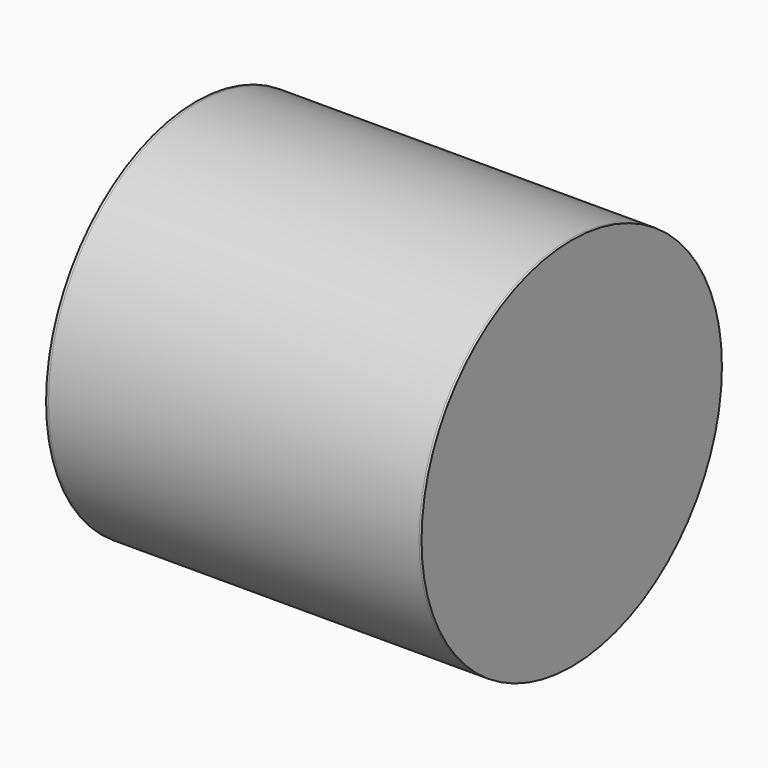
from build123d import *

# Parameters (mm, degrees)
SKETCH_R     = 152
PAD_DEPTH    = 2
SKETCH001_R  = 152
PAD001_DEPTH = 2
SKETCH002_R  = 152
PAD002_DEPTH = 300


with BuildPart() as pad:
    # Sketch → Pad (new body)
    with BuildSketch(Plane.YZ.offset(-150)):
        Circle(SKETCH_R)
    extrude(amount=-PAD_DEPTH)


with BuildPart() as pad001:
    # Sketch001 → Pad001 (new body)
    with BuildSketch(Plane.YZ.offset(150)):
        Circle(SKETCH001_R)
    extrude(amount=PAD001_DEPTH)


with BuildPart() as pad002:
    # Sketch002 → Pad002 (new body)
    with BuildSketch(Plane.YZ.offset(-150)):
        Circle(SKETCH002_R)
        with BuildLine():
            ThreePointArc((-5, 149.916644), (-75.000007, 129.903807), (-127.33163, 79.288436))
            Line((-127.33163, 79.288436), (-118.671374, 74.288439))
            Line((-118.671374, 74.288439), (-123.671373, 65.628185))
            Line((-123.671373, 65.628185), (-132.331629, 70.628181))
            ThreePointArc((-132.331629, 70.628181), (-150, -2.3e-05), (-132.331607, -70.628222))
            Line((-123.671356, -65.628217), (-132.331607, -70.628222))
            Line((-123.671356, -65.628217), (-118.671354, -74.28847))
            Line((-118.671354, -74.28847), (-127.331605, -79.288475))
            ThreePointArc((-127.331605, -79.288475), (-74.999987, -129.903818), (-5, -149.916644))
            Line((-5, -149.916644), (-5, -139.916644))
            Line((-5, -139.916644), (5, -139.916644))
            Line((5, -139.916644), (5, -149.916644))
            ThreePointArc((5, -149.916644), (74.999987, -129.903818), (127.331605, -79.288475))
            Line((118.671351, -74.288476), (127.331605, -79.288475))
            Line((123.671353, -65.628223), (118.671351, -74.288476))
            Line((123.671353, -65.628223), (132.331607, -70.628222))
            ThreePointArc((132.331607, -70.628222), (150, -2.3e-05), (132.331629, 70.628181))
            Line((123.671376, 65.628179), (132.331629, 70.628181))
            Line((118.671377, 74.288434), (123.671376, 65.628179))
            Line((118.671377, 74.288434), (127.33163, 79.288436))
            ThreePointArc((127.33163, 79.288436), (75.000007, 129.903807), (5, 149.916644))
            Line((5, 139.916644), (5, 149.916644))
            Line((-5, 139.916644), (5, 139.916644))
            Line((-5, 149.916644), (-5, 139.916644))
        make_face(mode=Mode.SUBTRACT)
    extrude(amount=PAD002_DEPTH)


solid = Compound([pad.part, pad001.part, pad002.part])
